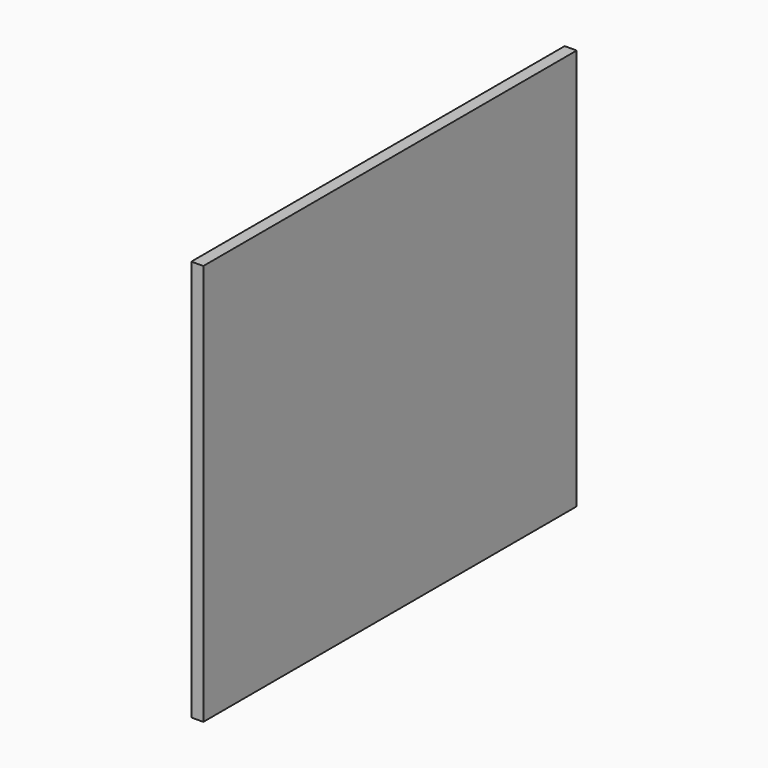
from build123d import *

# Parameters (mm, degrees)
F1_DEPTH = 9
F2_DEPTH = 18


with BuildPart() as f1:
    # F0 (on Right) → F1 (new body)
    with BuildSketch(Plane.YZ):
        Polygon((-350, -310), (350, -310), (350, 162), (350, 292), (-350, 292), (-350, 162), align=None)
    extrude(amount=F1_DEPTH)

    # F0 (on Right) → F2 (join)
    with BuildSketch(Plane.YZ):
        Polygon((-350, -310), (350, -310), (350, 162), (350, 292), (-350, 292), (-350, 162), align=None)
    extrude(amount=F2_DEPTH)


solid = f1.part
